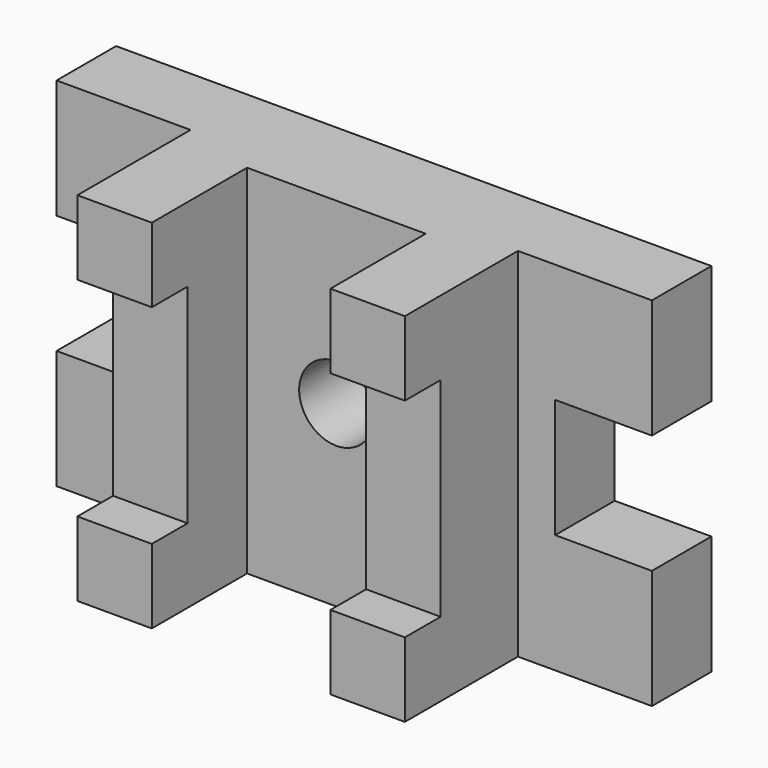
from build123d import *

# Parameters (mm, degrees)
F0_R     = 15.875
F0_W     = 31.75
F0_H     = 31.75
F0_H_2   = 88.9
F1_DEPTH = 31.75
F2_DEPTH = 41.275
F3_DEPTH = 73.025
F4_DEPTH = 92.075


with BuildPart() as f1:
    # F0 (on Front) → F1 (new body)
    with BuildSketch(Plane.XZ):
        Polygon((-69.85, 76.2), (-127, 76.2), (-127, 25.4), (-85.725, 25.4), (-85.725, -25.4), (-127, -25.4), (-127, -76.2), (-69.85, -76.2), (-69.85, -44.45), (-69.85, 44.45), align=None)
        Polygon((38.1, 76.2), (-38.1, 76.2), (-38.1, 44.45), (-38.1, -44.45), (-38.1, -76.2), (38.1, -76.2), (38.1, -44.45), (38.1, 44.45), align=None)
        Circle(F0_R, mode=Mode.SUBTRACT)
        with Locations((-53.975, 60.325)):
            Rectangle(F0_W, F0_H)
        with Locations((-53.975, 0)):
            Rectangle(F0_W, F0_H_2)
        with Locations((-53.975, -60.325)):
            Rectangle(F0_W, F0_H)
        with Locations((53.975, -60.325)):
            Rectangle(F0_W, F0_H)
        with Locations((53.975, 0)):
            Rectangle(F0_W, F0_H_2)
        with Locations((53.975, 60.325)):
            Rectangle(F0_W, F0_H)
        Polygon((127, 76.2), (69.85, 76.2), (69.85, 44.45), (69.85, -44.45), (69.85, -76.2), (127, -76.2), (127, -25.4), (85.725, -25.4), (85.725, 25.4), (127, 25.4), align=None)
    extrude(amount=F1_DEPTH)

    # F0 (on Front) → F2 (join)
    with BuildSketch(Plane.XZ):
        with Locations((-53.975, 60.325)):
            Rectangle(F0_W, F0_H)
        with Locations((-53.975, 0)):
            Rectangle(F0_W, F0_H_2)
        Polygon((38.1, 76.2), (-38.1, 76.2), (-38.1, 44.45), (-38.1, -44.45), (-38.1, -76.2), (38.1, -76.2), (38.1, -44.45), (38.1, 44.45), align=None)
        Circle(F0_R, mode=Mode.SUBTRACT)
        with Locations((-53.975, -60.325)):
            Rectangle(F0_W, F0_H)
        with Locations((53.975, 60.325)):
            Rectangle(F0_W, F0_H)
        with Locations((53.975, 0)):
            Rectangle(F0_W, F0_H_2)
        with Locations((53.975, -60.325)):
            Rectangle(F0_W, F0_H)
    extrude(amount=F2_DEPTH)

    # F0 (on Front) → F3 (join)
    with BuildSketch(Plane.XZ):
        with Locations((-53.975, 60.325)):
            Rectangle(F0_W, F0_H)
        with Locations((-53.975, 0)):
            Rectangle(F0_W, F0_H_2)
        with Locations((-53.975, -60.325)):
            Rectangle(F0_W, F0_H)
        with Locations((53.975, -60.325)):
            Rectangle(F0_W, F0_H)
        with Locations((53.975, 0)):
            Rectangle(F0_W, F0_H_2)
        with Locations((53.975, 60.325)):
            Rectangle(F0_W, F0_H)
    extrude(amount=F3_DEPTH)

    # F0 (on Front) → F4 (join)
    with BuildSketch(Plane.XZ):
        with Locations((-53.975, 60.325)):
            Rectangle(F0_W, F0_H)
        with Locations((-53.975, -60.325)):
            Rectangle(F0_W, F0_H)
        with Locations((53.975, -60.325)):
            Rectangle(F0_W, F0_H)
        with Locations((53.975, 60.325)):
            Rectangle(F0_W, F0_H)
    extrude(amount=F4_DEPTH)


solid = f1.part
